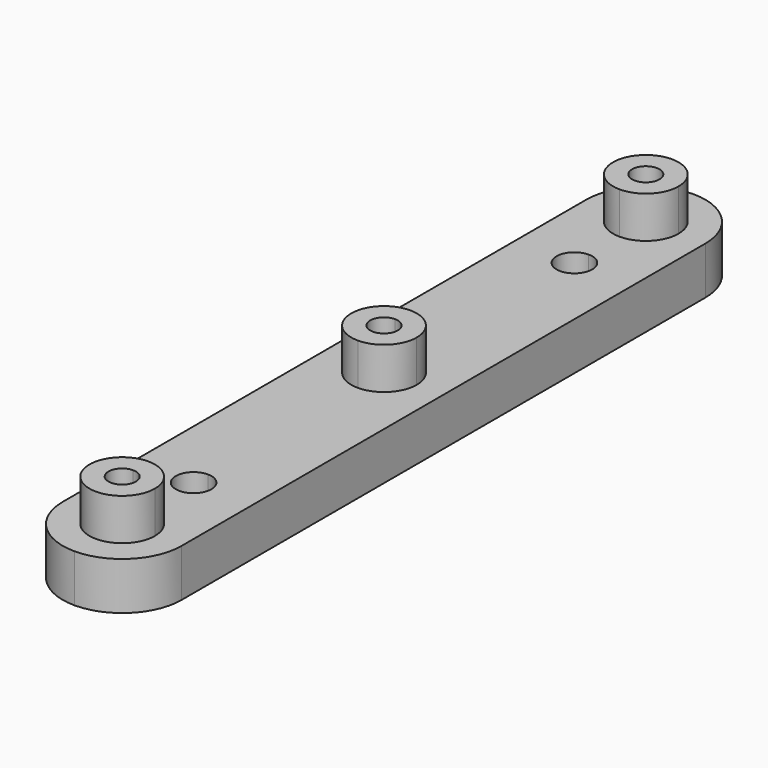
from build123d import *

# Parameters (mm, degrees)
F1_DEPTH = 5.08
F2_DEPTH = 9.525


with BuildPart() as f1:
    # F0 (on Top) → F1 (new body)
    with BuildSketch(Plane.XY):
        with BuildLine():
            ThreePointArc((0, -41.275), (4.4901280605, -39.4151280605), (6.35, -34.925))
            Line((6.35, -34.925), (6.35, 34.925))
            ThreePointArc((6.35, 34.925), (4.4901280605, 39.4151280605), (0, 41.275))
            ThreePointArc((0, 41.275), (-4.4901280605, 39.4151280605), (-6.35, 34.925))
            Line((-6.35, 34.925), (-6.35, -34.925))
            ThreePointArc((-6.35, -34.925), (-4.4901280605, -39.4151280605), (0, -41.275))
        make_face()
        with BuildLine():
            ThreePointArc((3.4925, -34.925), (-2.4695704333, -37.3945704333), (0, -31.4325))
            ThreePointArc((0, -31.4325), (2.4695704333, -32.4554295667), (3.4925, -34.925))
        make_face(mode=Mode.SUBTRACT)
        with BuildLine():
            ThreePointArc((0, -27.305), (-1.905, -25.4), (0, -23.495))
            ThreePointArc((0, -23.495), (1.3470384182, -24.0529615818), (1.905, -25.4))
            ThreePointArc((1.905, -25.4), (1.3470384182, -26.7470384182), (0, -27.305))
        make_face(mode=Mode.SUBTRACT)
        with BuildLine():
            ThreePointArc((0, -3.4925), (-3.4925, 0), (0, 3.4925))
            ThreePointArc((0, 3.4925), (2.4695704333, 2.4695704333), (3.4925, 0))
            ThreePointArc((3.4925, 0), (2.4695704333, -2.4695704333), (0, -3.4925))
        make_face(mode=Mode.SUBTRACT)
        with BuildLine():
            ThreePointArc((0, 23.495), (-1.905, 25.4), (0, 27.305))
            ThreePointArc((0, 27.305), (1.3470384182, 26.7470384182), (1.905, 25.4))
            ThreePointArc((1.905, 25.4), (1.3470384182, 24.0529615818), (0, 23.495))
        make_face(mode=Mode.SUBTRACT)
        with BuildLine():
            ThreePointArc((3.4925, 34.925), (2.4695704333, 32.4554295667), (0, 31.4325))
            ThreePointArc((0, 31.4325), (-2.4695704333, 37.3945704333), (3.4925, 34.925))
        make_face(mode=Mode.SUBTRACT)
    extrude(amount=F1_DEPTH)

    # F0 (on Top) → F2 (join)
    with BuildSketch(Plane.XY):
        with BuildLine():
            ThreePointArc((3.4925, -34.925), (2.4695704333, -32.4554295667), (0, -31.4325))
            ThreePointArc((0, -31.4325), (-2.4695704333, -37.3945704333), (3.4925, -34.925))
        make_face()
        with BuildLine():
            ThreePointArc((1.4605, -34.925), (-1.0327294539, -35.9577294539), (0, -33.4645))
            ThreePointArc((0, -33.4645), (1.0327294539, -33.8922705461), (1.4605, -34.925))
        make_face(mode=Mode.SUBTRACT)
        with BuildLine():
            ThreePointArc((3.4925, 0), (2.4695704333, 2.4695704333), (0, 3.4925))
            Line((0, 3.4925), (0, 1.4605))
            ThreePointArc((0, 1.4605), (1.0327294539, 1.0327294539), (1.4605, 0))
            ThreePointArc((1.4605, 0), (1.0327294539, -1.0327294539), (0, -1.4605))
            Line((0, -1.4605), (0, -3.4925))
            ThreePointArc((0, -3.4925), (2.4695704333, -2.4695704333), (3.4925, 0))
        make_face()
        with BuildLine():
            Line((0, 1.4605), (0, 3.4925))
            ThreePointArc((0, 3.4925), (-3.4925, 0), (0, -3.4925))
            Line((0, -3.4925), (0, -1.4605))
            ThreePointArc((0, -1.4605), (-1.4605, 0), (0, 1.4605))
        make_face()
        with BuildLine():
            ThreePointArc((3.4925, 34.925), (-2.4695704333, 37.3945704333), (0, 31.4325))
            ThreePointArc((0, 31.4325), (2.4695704333, 32.4554295667), (3.4925, 34.925))
        make_face()
        with BuildLine():
            ThreePointArc((1.4605, 34.925), (1.0327294539, 33.8922705461), (0, 33.4645))
            ThreePointArc((0, 33.4645), (-1.0327294539, 35.9577294539), (1.4605, 34.925))
        make_face(mode=Mode.SUBTRACT)
    extrude(amount=F2_DEPTH)


solid = f1.part
